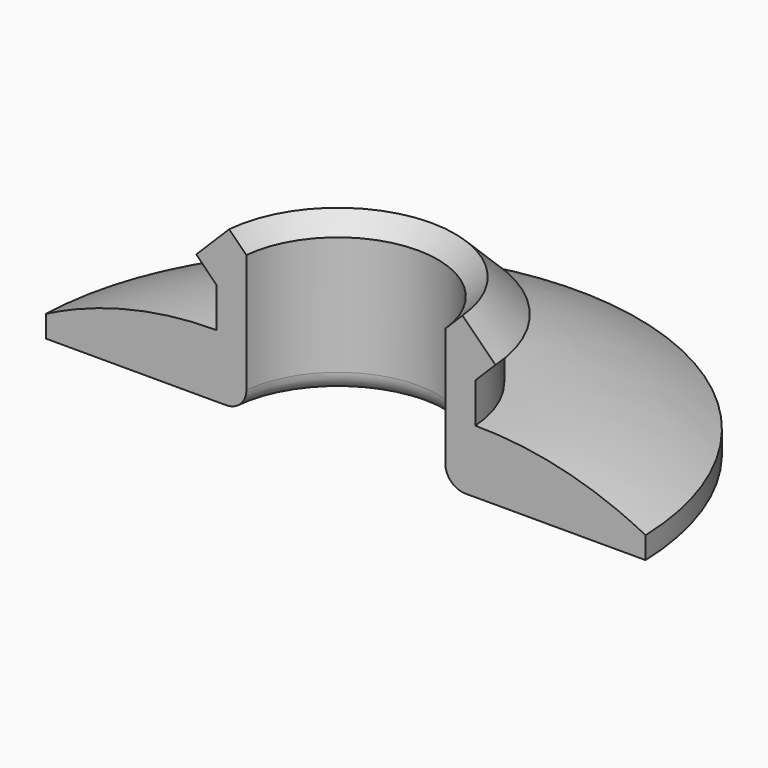
from build123d import *

# Parameters (mm, degrees)
F1_ANGLE = 180
F2_W     = 37.850172
F2_H     = 1.105263
F3_DEPTH = 25


with BuildPart() as f1:
    # F0 (on Front) → F1 (revolve)
    with BuildSketch(Plane.XZ):
        with BuildLine():
            Line((-5, 2.037182), (-5, 7.976442))
            Line((-5, 7.976442), (-5.856478, 8.832919))
            Line((-5.856478, 8.832919), (-7.5, 7.189397))
            Line((-7.5, 7.189397), (-6.5, 6.189397))
            Line((-6.5, 6.189397), (-6.5, 4.189397))
            ThreePointArc((-6.5, 4.189397), (-10.872328, 3.668606), (-15, 2.135373))
            Line((-15, 2.135373), (-15, 1.037182))
            Line((-15, 1.037182), (-6, 1.037182))
            ThreePointArc((-6, 1.037182), (-5.292893, 1.330076), (-5, 2.037182))
        make_face()
    revolve(axis=Axis((0, 0, 3.947891), (0, 0, -1)), revolution_arc=F1_ANGLE)

    # F2 (on Top) → F3 (cut)
    with BuildSketch(Plane.XY):
        with Locations((-0.315804, -0.052631)):
            Rectangle(F2_W, F2_H)
    extrude(amount=F3_DEPTH, mode=Mode.SUBTRACT)


solid = f1.part
